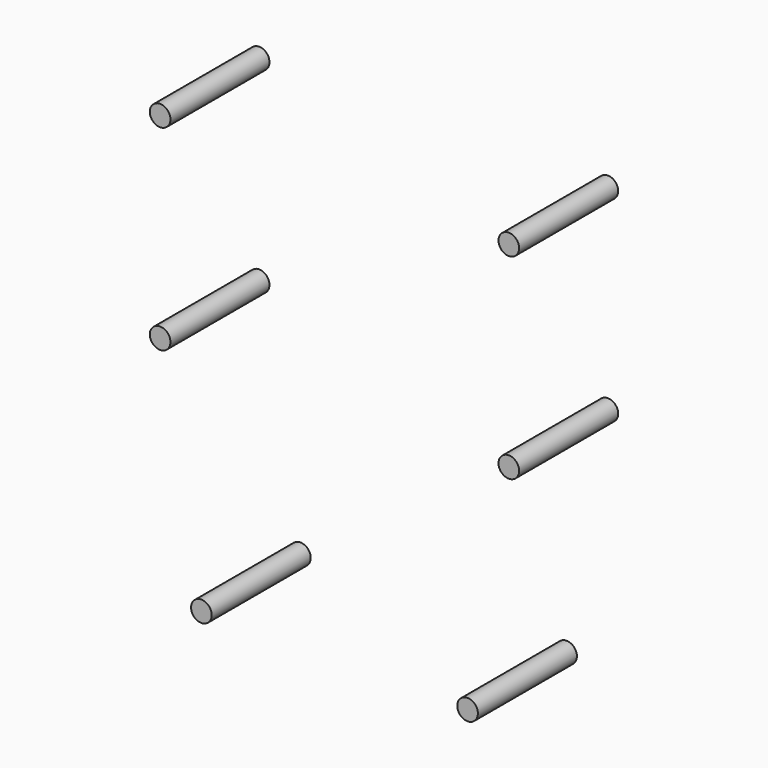
from build123d import *

# Parameters (mm, degrees)
F0_R     = 3.175
F1_DEPTH = 38.1


with BuildPart() as f1:
    # F0 (on Front) → F1 (new body)
    with BuildSketch(Plane.XZ):
        with Locations((6.35, 76.2)):
            Circle(F0_R)
        with Locations((6.35, 136.525)):
            Circle(F0_R)
        with Locations((19.05, 6.35)):
            Circle(F0_R)
        with Locations((100.965, 6.35)):
            Circle(F0_R)
        with Locations((113.665, 76.2)):
            Circle(F0_R)
        with Locations((113.665, 136.525)):
            Circle(F0_R)
    extrude(amount=F1_DEPTH)


solid = f1.part
